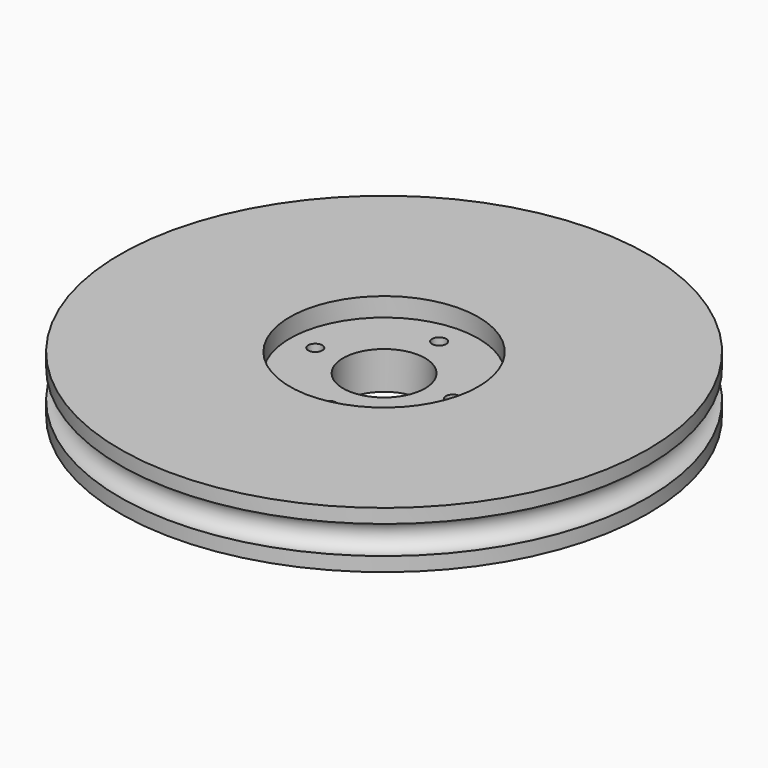
from build123d import *

# Parameters (mm, degrees)
CYLINDER003_R     = 0.75
CYLINDER003_DEPTH = 10
ARRAY_COUNT       = 4
CYLINDER002_R     = 4.35
CYLINDER002_DEPTH = 10
CYLINDER001_R     = 10
CYLINDER001_DEPTH = 10
TORUS_R           = 1.5
CYLINDER_R        = 28
CYLINDER_DEPTH    = 6


with BuildPart() as array:
    # Cylinder003 → Cylinder003 (new body)
    with BuildSketch(Plane(origin=(7.3, 0, -5), x_dir=(1, 0, 0), z_dir=(0, 0, 1))):
        Circle(CYLINDER003_R)
    extrude(amount=CYLINDER003_DEPTH)

    # Array: Array ×4 about axis
    array_axis = Axis((0, 0, 0), (0, 0, 1))


with BuildPart() as array_1:
    add(array.part)
    for i in range(1, ARRAY_COUNT):
        add(array.part.rotate(array_axis, i * 360 / ARRAY_COUNT))


with BuildPart() as cylinder002:
    # Cylinder002 → Cylinder002 (new body)
    with BuildSketch(Plane.XY.offset(-4)):
        Circle(CYLINDER002_R)
    extrude(amount=CYLINDER002_DEPTH)


with BuildPart() as corona_serve:
    # Cylinder001 → Cylinder001 (new body)
    with BuildSketch(Plane.XY.offset(4)):
        Circle(CYLINDER001_R)
    extrude(amount=CYLINDER001_DEPTH)


with BuildPart() as torus:
    # Torus → Torus (revolve)
    with BuildSketch(Plane(origin=(0, 0, 3), x_dir=(1, 0, 0), z_dir=(0, -1, 0))):
        with Locations((28, 0)):
            Circle(TORUS_R)
    revolve(axis=Axis((0, 0, 3), (0, 0, 1)))


with BuildPart() as cut003:
    # Cylinder → Cylinder (new body)
    with BuildSketch(Plane.XY):
        Circle(CYLINDER_R)
    extrude(amount=CYLINDER_DEPTH)

    # Cut: cut Torus
    add(torus.part, mode=Mode.SUBTRACT)

    # Cut001: cut corona_serve
    add(corona_serve.part, mode=Mode.SUBTRACT)

    # Cut002: cut Cylinder002
    add(cylinder002.part, mode=Mode.SUBTRACT)

    # Cut003: cut Array
    add(array_1.part, mode=Mode.SUBTRACT)


solid = cut003.part
